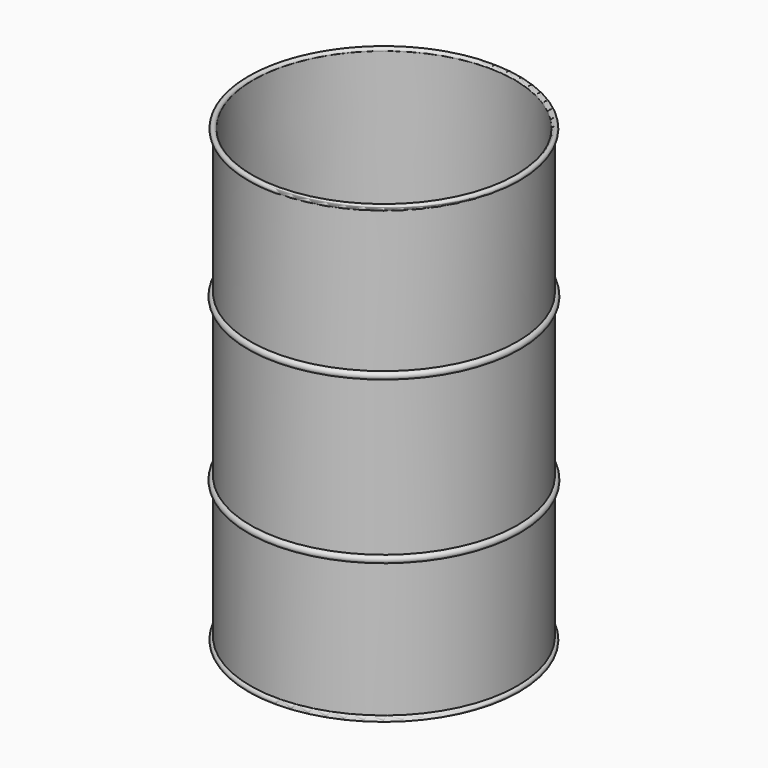
from build123d import *


with BuildPart() as f1:
    # F0 (on Front) → F1 (revolve)
    with BuildSketch(Plane.XZ):
        with BuildLine():
            Line((0, 4.160005), (0, 0))
            Line((0, 0), (236.474, 0))
            ThreePointArc((236.474, 0), (244.712497, -3.412497), (241.3, 4.826))
            Line((241.3, 4.826), (241.3, 247.65))
            ThreePointArc((241.3, 247.65), (247.65, 254), (241.3, 260.35))
            Line((241.3, 260.35), (241.3, 539.75))
            ThreePointArc((241.3, 539.75), (247.65, 546.1), (241.3, 552.45))
            Line((241.3, 552.45), (241.3, 807.974))
            ThreePointArc((241.3, 807.974), (244.787666, 816.135635), (236.478789, 813.01495))
            Line((236.478789, 813.01495), (236.480064, 812.558154))
            Line((236.480064, 812.558154), (238.733396, 4.826))
            Line((238.733396, 4.826), (0, 4.160005))
        make_face()
        with BuildLine():
            ThreePointArc((236.478789, 813.01495), (236.474019, 812.786537), (236.480064, 812.558154))
            Line((236.480064, 812.558154), (236.478789, 813.01495))
        make_face()
    revolve(axis=Axis((0, 0, 406.4), (0, 0, 1)))


solid = f1.part
